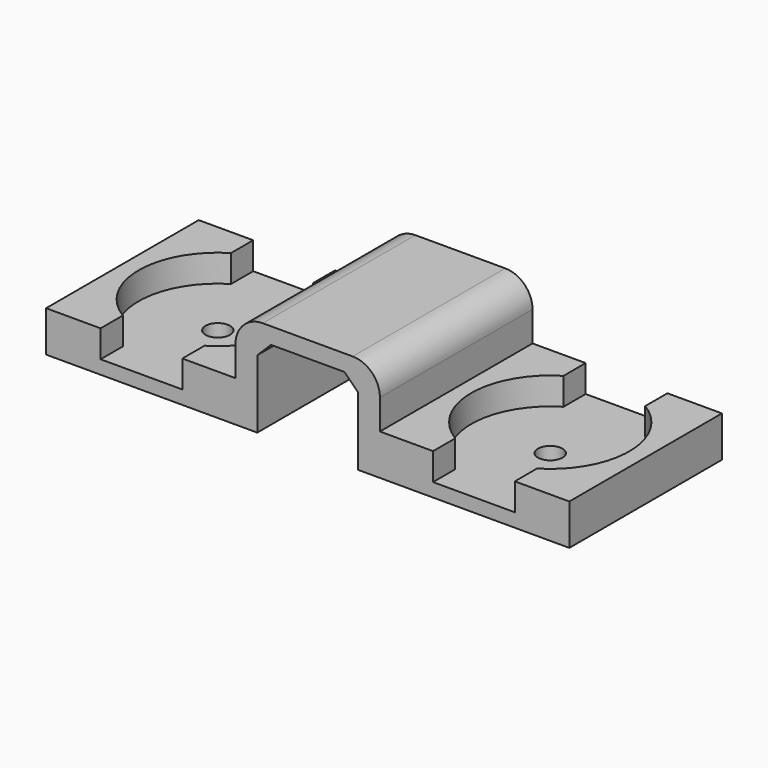
from build123d import *

# Parameters (mm, degrees)
PAD_DEPTH       = 7
SKETCH006_W     = 14
SKETCH006_H     = 14
PAD002_DEPTH    = 3
POCKET004_DEPTH = 2
SKETCH008_R     = 0.9
POCKET005_DEPTH = 1.001
FILLET001_R     = 2
CHAMFER_SIZE    = 1


with BuildPart() as clamp_unit001:
    # Sketch → Pad (new body, symmetric)
    with BuildSketch(Plane.XZ):
        Polygon((-3.7, 7.2), (5.3, 7.2), (5.3, 0), (3.7, 0), (3.7, 6), (-3.7, 6), (-3.7, 0), (-5.3, 0), (-5.3, 7.2), align=None)
    extrude(amount=PAD_DEPTH, both=True)


with BuildPart() as obj1:
    # Sketch006 → Pad002 (new body)
    with BuildSketch(Plane.XY):
        Rectangle(SKETCH006_W, SKETCH006_H)
    extrude(amount=PAD002_DEPTH)

    # Sketch007 → Pocket004 (cut)
    with BuildSketch(Plane.XY.offset(3)):
        with BuildLine():
            Line((-3, 7), (-3, 4.963869))
            ThreePointArc((-3, 4.963869), (-5.8, 0), (-3, -4.963869))
            Line((-3, -7), (-3, -4.963869))
            Line((3, -7), (-3, -7))
            Line((3, -4.963869), (3, -7))
            ThreePointArc((3, -4.963869), (5.8, 0), (3, 4.963869))
            Line((3, 7), (3, 4.963869))
            Line((-3, 7), (3, 7))
        make_face()
    extrude(amount=-POCKET004_DEPTH, mode=Mode.SUBTRACT)

    # Sketch008 → Pocket005 (cut, through all)
    with BuildSketch(Plane.XY.offset(1)):
        Circle(SKETCH008_R)
    extrude(amount=-POCKET005_DEPTH, mode=Mode.SUBTRACT)


with BuildPart() as obj1_1:
    # Clone placement: moved
    add(obj1.part.moved(Location((-11.2, 0, 0))))


with BuildPart() as obj1_2:
    # Clone002 placement: moved
    add(obj1_1.part.moved(Location((-1, 0, 0))))


with BuildPart() as obj2:
    # Clone004 base: copy of obj1
    add(obj1_2.part)


with BuildPart() as obj2_1:
    # Clone004 placement: moved
    add(obj2.part.moved(Location((24.4, 0, 0))))


with BuildPart() as obj3:
    # Fusion001 base: copy of obj1
    add(obj1_2.part)

    # Fusion001: union clamp-unit001, obj2
    add(clamp_unit001.part)
    add(obj2_1.part)

    # Fillet001
    fillet001_edges = [obj3.edges().sort_by_distance(p)[0] for p in [
        (5.3, 0, 7.2),
        (-5.3, 0, 7.2),
    ]]
    fillet(fillet001_edges, radius=FILLET001_R)

    # Chamfer
    chamfer_edges = [obj3.edges().sort_by_distance(p)[0] for p in [
        (-3.7, 0, 6),
        (3.7, 0, 6),
    ]]
    chamfer(chamfer_edges, length=CHAMFER_SIZE)


solid = obj3.part
